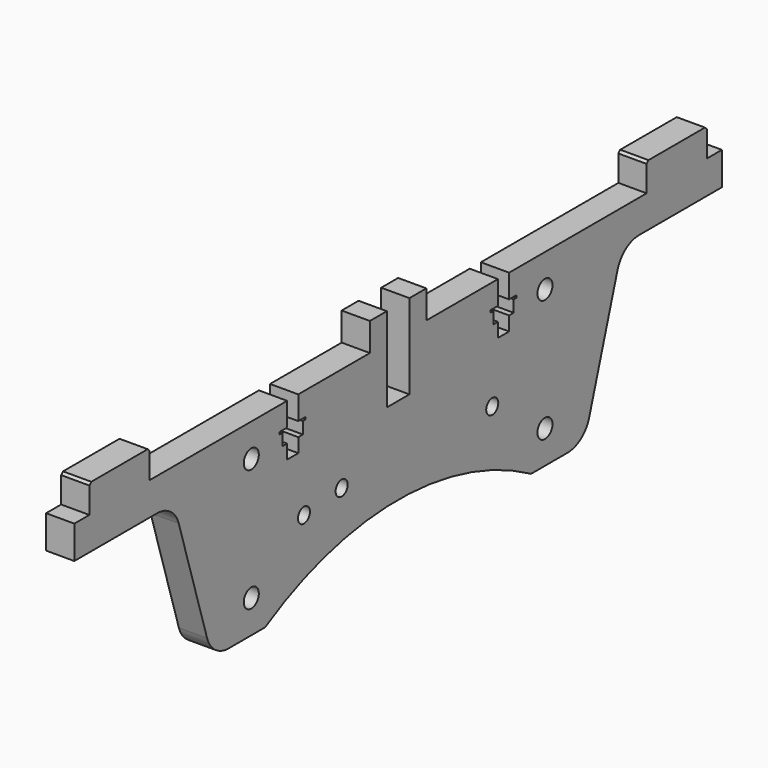
from build123d import *

# Parameters (mm, degrees)
SKETCH073_R   = 2
SKETCH073_R_2 = 1.6
PAD_DEPTH     = 6


with BuildPart() as part:
    # Sketch073 → Pad (new body)
    with BuildSketch(Plane.YZ):
        with BuildLine():
            Line((26.52, 20), (7.5, 20))
            Line((7.5, 20), (7.5, 26))
            Line((7.5, 26), (3, 26))
            Line((3, 26), (3, 8))
            Line((3, 8), (-3, 8))
            Line((-3, 8), (-3, 26))
            Line((-3, 26), (-7.5, 26))
            Line((-7.5, 26), (-7.5, 20))
            Line((-7.5, 20), (-26.52, 20))
            Line((-26.52, 15), (-26.52, 20))
            Line((-24.55, 15), (-26.52, 15))
            Line((-24.55, 14.5), (-24.55, 15))
            Line((-25.3, 14.5), (-24.55, 14.5))
            Line((-25.3, 12), (-25.3, 14.5))
            Line((-26.52, 12), (-25.3, 12))
            Line((-26.52, 9), (-26.52, 12))
            Line((-29.48, 9), (-26.52, 9))
            Line((-29.48, 12), (-29.48, 9))
            Line((-30.7, 12), (-29.48, 12))
            Line((-30.7, 14.5), (-30.7, 12))
            Line((-31.45, 14.5), (-30.7, 14.5))
            Line((-31.45, 15), (-31.45, 14.5))
            Line((-29.48, 15), (-31.45, 15))
            Line((-29.48, 20), (-29.48, 15))
            Line((-29.48, 20), (-66, 20))
            Line((-66, 20), (-66, 25.5))
            Line((-66, 25.5), (-66.5, 26))
            Line((-66.5, 26), (-81.5, 26))
            Line((-81.5, 26), (-82, 25.5))
            Line((-82, 25.5), (-82, 20))
            Line((-82, 20), (-86, 20))
            Line((-86, 20), (-86, 13))
            Line((-86, 13), (-64, 13))
            ThreePointArc((-58.264227, 8.760938), (-60.433884, 11.825227), (-64, 13))
            Line((-58.264227, 8.760938), (-50.735773, -15.760938))
            ThreePointArc((-50.735773, -15.760938), (-48.566116, -18.825227), (-45, -20))
            Line((-45, -20), (-35.321389, -20))
            ThreePointArc((35.321389, -20), (0, -10.5), (-35.321389, -20))
            Line((35.321389, -20), (45, -20))
            ThreePointArc((45, -20), (48.566116, -18.825227), (50.735773, -15.760938))
            Line((50.735773, -15.760938), (58.264227, 8.760938))
            ThreePointArc((64, 13), (60.433884, 11.825227), (58.264227, 8.760938))
            Line((64, 13), (86, 13))
            Line((86, 13), (86, 20))
            Line((86, 20), (82, 20))
            Line((82, 20), (82, 25.5))
            Line((82, 25.5), (81.5, 26))
            Line((81.5, 26), (66.5, 26))
            Line((66.5, 26), (66, 25.5))
            Line((66, 25.5), (66, 20))
            Line((66, 20), (29.48, 20))
            Line((29.48, 15), (29.48, 20))
            Line((31.45, 15), (29.48, 15))
            Line((31.45, 14.5), (31.45, 15))
            Line((30.7, 14.5), (31.45, 14.5))
            Line((30.7, 12), (30.7, 14.5))
            Line((29.48, 12), (30.7, 12))
            Line((29.48, 9), (29.48, 12))
            Line((26.52, 9), (29.48, 9))
            Line((26.52, 12), (26.52, 9))
            Line((25.3, 12), (26.52, 12))
            Line((25.3, 14.5), (25.3, 12))
            Line((24.55, 14.5), (25.3, 14.5))
            Line((24.55, 15), (24.55, 14.5))
            Line((26.52, 15), (24.55, 15))
            Line((26.52, 20), (26.52, 15))
        make_face()
        with Locations((-39, 13)):
            Circle(SKETCH073_R, mode=Mode.SUBTRACT)
        with Locations((39, 13)):
            Circle(SKETCH073_R, mode=Mode.SUBTRACT)
        with Locations((-25, -3.2)):
            Circle(SKETCH073_R_2, mode=Mode.SUBTRACT)
        with Locations((-15, -2.2)):
            Circle(SKETCH073_R_2, mode=Mode.SUBTRACT)
        with Locations((39, -13)):
            Circle(SKETCH073_R, mode=Mode.SUBTRACT)
        with Locations((-39, -13)):
            Circle(SKETCH073_R, mode=Mode.SUBTRACT)
        with Locations((25, -3.2)):
            Circle(SKETCH073_R_2, mode=Mode.SUBTRACT)
    extrude(amount=PAD_DEPTH)


solid = part.part
